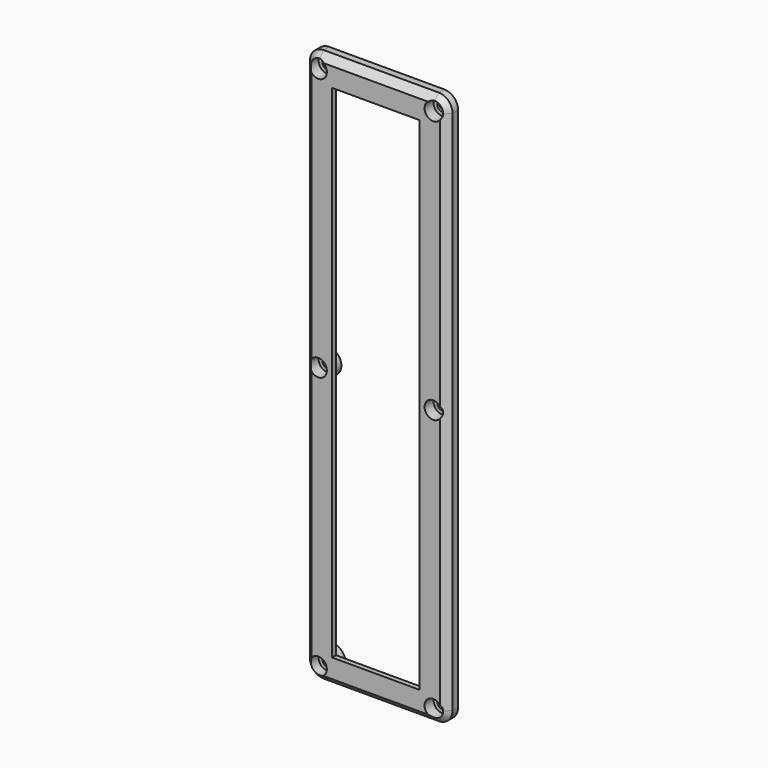
from build123d import *

# Parameters (mm, degrees)
F1_DEPTH       = 5.08
F2_SIZE        = 2.54
F4_D           = 3.6576
F4_START       = 0.635
F4_START_2     = 0.6350001
F4_CBORE_D     = 6.35
F4_CBORE_DEPTH = 3.5052
F5_W           = 32.0675
F5_H           = 184.15
F6_DEPTH       = 5.081
F7_W           = 32.0675
F7_H           = 184.15
F8_DEPTH       = 3.2766


with BuildPart() as f1:
    # F0 (on Front) → F1 (new body)
    with BuildSketch(Plane.XZ):
        with BuildLine():
            ThreePointArc((26.19375, 96.52), (24.7058524484, 100.1121024484), (21.11375, 101.6))
            Line((21.11375, 101.6), (-21.11375, 101.6))
            ThreePointArc((-21.11375, 101.6), (-24.7058524484, 100.1121024484), (-26.19375, 96.52))
            Line((-26.19375, 96.52), (-26.19375, -96.52))
            ThreePointArc((-26.19375, -96.52), (-24.7058524484, -100.1121024484), (-21.11375, -101.6))
            Line((-21.11375, -101.6), (21.11375, -101.6))
            ThreePointArc((21.11375, -101.6), (24.7058524484, -100.1121024484), (26.19375, -96.52))
            Line((26.19375, -96.52), (26.19375, 96.52))
        make_face()
    extrude(amount=F1_DEPTH)

    # F2
    f2_edges = [f1.edges().sort_by_distance(p)[0] for p in [
        (0, -5.08, 101.6),
    ]]
    chamfer(f2_edges, length=F2_SIZE)

    # F4 (through all)
    # its depths count from where the whole tool has entered the part; down to there all is cleared
    with Locations(Plane.XZ.offset(5.08)):
        with Locations((-21.11375, 96.52, -F4_START_2), (21.11375, 96.52, -F4_START_2), (21.11375, 0, -F4_START), (-21.11375, 0, -F4_START), (-21.11375, -96.52, -F4_START_2), (21.11375, -96.52, -F4_START_2)):
            CounterBoreHole(F4_D / 2, F4_CBORE_D / 2, F4_CBORE_DEPTH)

    # F5 (on face) → F6 (cut, through all)
    with BuildSketch(Plane.XZ.offset(5.08)):
        Rectangle(F5_W, F5_H)
    extrude(amount=-F6_DEPTH, mode=Mode.SUBTRACT)

    # F7 (on face) → F8 (cut)
    with BuildSketch(Plane(origin=(0, 0, 0), x_dir=(-1, 0, 0), z_dir=(0, 1, 0))):
        with BuildLine():
            ThreePointArc((21.11375, 90.17), (16.6236219395, 92.0298719395), (14.76375, 96.52))
            Line((14.76375, 96.52), (-14.76375, 96.52))
            ThreePointArc((-14.76375, 96.52), (-16.6236219395, 92.0298719395), (-21.11375, 90.17))
            Line((-21.11375, 90.17), (-21.11375, 4.445))
            ThreePointArc((-21.11375, 4.445), (-16.66875, 0), (-21.11375, -4.445))
            Line((-21.11375, -4.445), (-21.11375, -90.17))
            ThreePointArc((-21.11375, -90.17), (-16.6236219395, -92.0298719395), (-14.76375, -96.52))
            Line((-14.76375, -96.52), (14.76375, -96.52))
            ThreePointArc((14.76375, -96.52), (16.6236219395, -92.0298719395), (21.11375, -90.17))
            Line((21.11375, -90.17), (21.11375, -4.445))
            ThreePointArc((21.11375, -4.445), (16.66875, 0), (21.11375, 4.445))
            Line((21.11375, 4.445), (21.11375, 90.17))
        make_face()
        Rectangle(F7_W, F7_H, mode=Mode.SUBTRACT)
    extrude(amount=-F8_DEPTH, mode=Mode.SUBTRACT)


solid = f1.part
